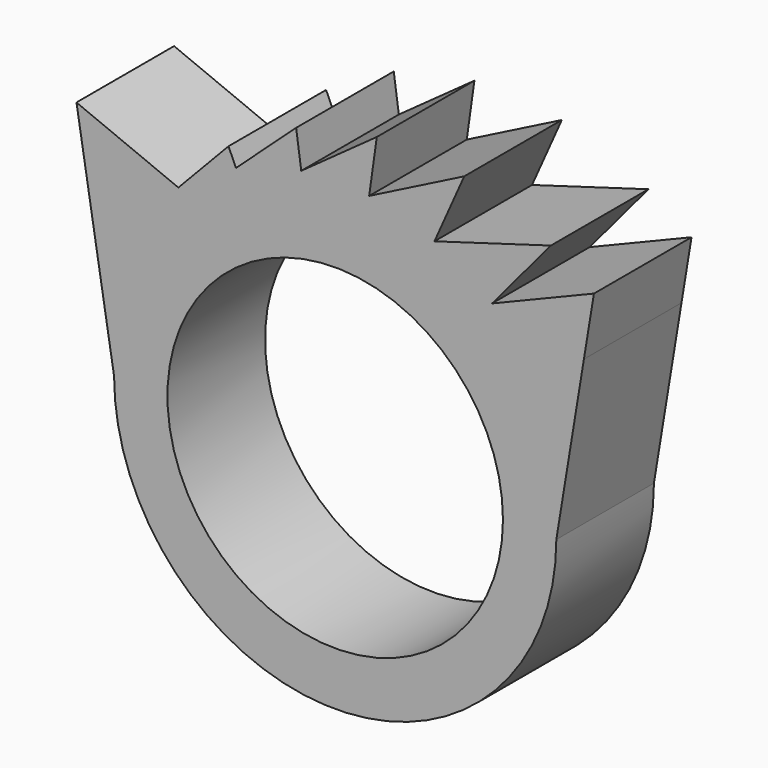
from build123d import *

# Parameters (mm, degrees)
F0_R     = 6.985
F1_DEPTH = 5.08


with BuildPart() as f1:
    # F0 (on Front) → F1 (new body)
    with BuildSketch(Plane.XZ):
        with BuildLine():
            ThreePointArc((-9.2075, 0), (0, 9.2075), (9.2075, 0))
            Line((9.2075, 0), (10.355688, 6.985))
            Line((10.355688, 6.985), (10.773211, 9.525))
            Line((10.773211, 9.525), (6.530722, 7.783012))
            Line((6.530722, 7.783012), (8.979743, 10.701641))
            Line((8.979743, 10.701641), (4.132444, 9.281622))
            Line((4.132444, 9.281622), (5.372178, 12.066108))
            Line((5.372178, 12.066108), (1.413999, 10.061124))
            Line((1.413999, 10.061124), (1.732148, 12.324876))
            Line((1.732148, 12.324876), (-1.413999, 10.061124))
            Line((-1.413999, 10.061124), (-1.626099, 11.570292))
            Line((-1.626099, 11.570292), (-4.132444, 9.281622))
            Line((-4.132444, 9.281622), (-4.442378, 9.977743))
            Line((-4.442378, 9.977743), (-6.530722, 7.783012))
            Line((-6.530722, 7.783012), (-10.773211, 9.525))
            Line((-10.773211, 9.525), (-10.355688, 6.985))
            Line((-10.355688, 6.985), (-9.2075, 0))
        make_face()
        with BuildLine():
            ThreePointArc((-9.2075, 0), (0, -9.2075), (9.2075, 0))
            ThreePointArc((9.2075, 0), (0, 9.2075), (-9.2075, 0))
        make_face()
        Circle(F0_R, mode=Mode.SUBTRACT)
    extrude(amount=F1_DEPTH)


solid = f1.part
